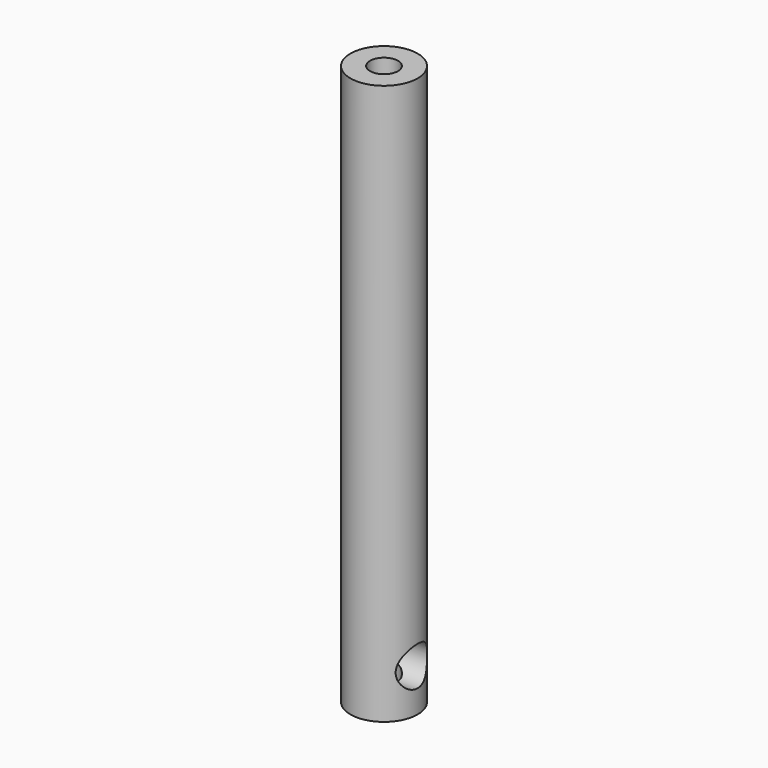
from build123d import *

# Parameters (mm, degrees)
F0_R     = 60
F0_R_2   = 25
F1_DEPTH = 500
F3_D     = 70
F3_DEPTH = 60.001
F5_D     = 70
F5_DEPTH = 60.0010001


with BuildPart() as f1:
    # F0 (on Top) → F1 (new body, symmetric)
    with BuildSketch(Plane.XY):
        Circle(F0_R)
        Circle(F0_R_2, mode=Mode.SUBTRACT)
    extrude(amount=F1_DEPTH, both=True)

    # F3 (through all, one way)
    with BuildSketch(Plane.YZ):
        with Locations((0, 433.1713616848)):
            Circle(F3_D / 2)
    extrude(amount=-F3_DEPTH, mode=Mode.SUBTRACT)

    # F5 (through all, one way)
    with BuildSketch(Plane(origin=(0, 0, 0), x_dir=(0, 1, 0), z_dir=(-1, 0, 0))):
        with Locations((0, 423.8957464695)):
            Circle(F5_D / 2)
    extrude(amount=-F5_DEPTH, mode=Mode.SUBTRACT)


solid = f1.part
